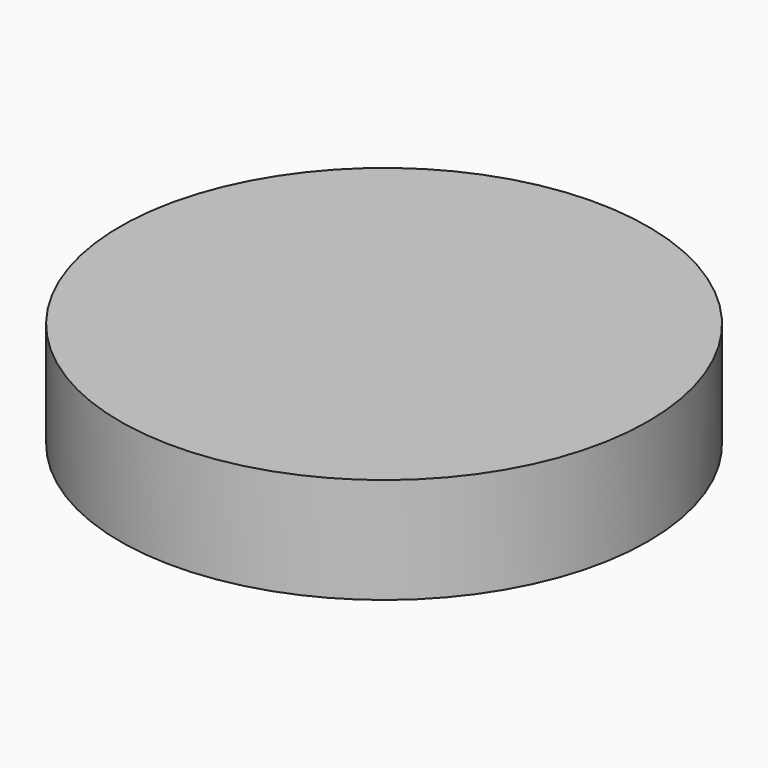
from build123d import *

# Parameters (mm, degrees)
F0_R     = 12.7
F0_R_2   = 3.99923
F1_DEPTH = 5.08
F2_R     = 3.99923
F3_DEPTH = 2.54


with BuildPart() as f1:
    # F0 (on Top) → F1 (new body)
    with BuildSketch(Plane.XY):
        Circle(F0_R)
        Circle(F0_R_2, mode=Mode.SUBTRACT)
        Circle(F0_R_2)
    extrude(amount=F1_DEPTH)

    # F2 (on face) → F3 (cut)
    with BuildSketch(Plane(origin=(0, 0, 0), x_dir=(1, 0, 0), z_dir=(0, 0, -1))):
        Circle(F2_R)
    extrude(amount=-F3_DEPTH, mode=Mode.SUBTRACT)


solid = f1.part
